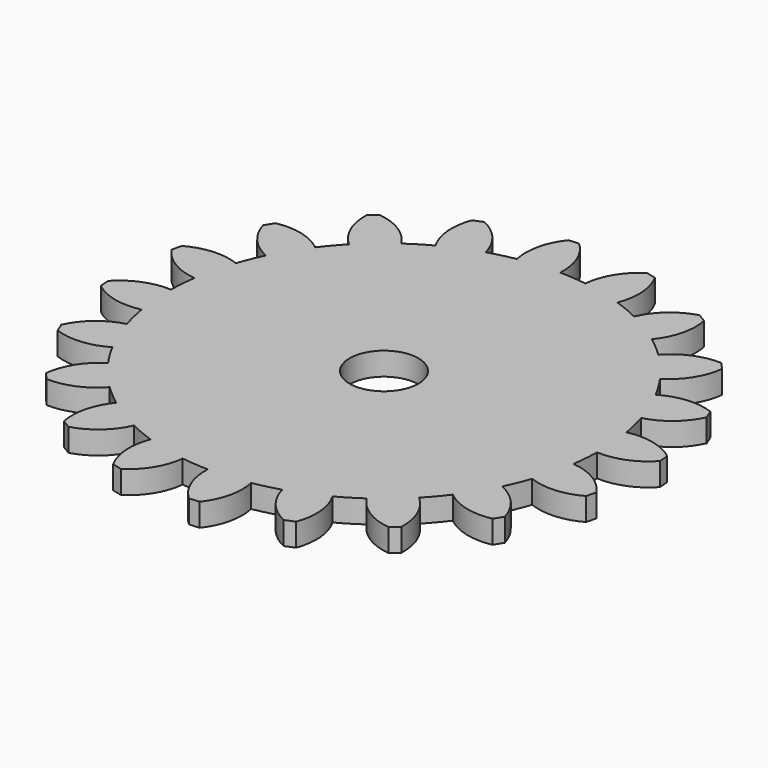
from build123d import *

# Parameters (mm, degrees)
F1_R     = 1.5
F2_DEPTH = 1


with BuildPart() as f2:
    # F1 (on Top) → F2 (new body)
    with BuildSketch(Plane.XY):
        with BuildLine():
            ThreePointArc((-1.6229776334, 9.2680599554), (-0.7382287643, 9.3800858219), (0.1531520845, 9.4078443957))
            ThreePointArc((0.1531520845, 9.4078443957), (-0.0317997207, 10.5374998224), (-0.6817601701, 11.4797736507))
            Line((-0.6817601701, 11.4797736507), (-1.1224656787, 11.4450893749))
            ThreePointArc((-1.1224656787, 11.4450893749), (-1.6170199342, 10.4127402859), (-1.6229776334, 9.2680599554))
        make_face()
        with BuildLine():
            ThreePointArc((9.4078443957, -0.1531520845), (9.4087792756, -0.0765785786), (9.4090909091, 0))
            ThreePointArc((9.4090909091, 0), (9.3737668631, 0.8145468262), (9.2680599554, 1.6229776334))
            ThreePointArc((9.2680599554, 1.6229776334), (9.1491169783, 2.1965086508), (8.9947183137, 2.7615275108))
            ThreePointArc((8.9947183137, 2.7615275108), (8.6928665104, 3.6007032045), (8.3129211438, 4.4075314852))
            ThreePointArc((8.3129211438, 4.4075314852), (8.0225688191, 4.9162364953), (7.7011265332, 5.4058895526))
            ThreePointArc((7.7011265332, 5.4058895526), (7.1547288581, 6.1107157275), (6.5440556911, 6.7606454461))
            ThreePointArc((6.5440556911, 6.7606454461), (6.1107157275, 7.1547288581), (5.6536948308, 7.52108546))
            ThreePointArc((5.6536948308, 7.52108546), (4.9162364953, 8.0225688191), (4.1346124722, 8.4519803265))
            ThreePointArc((4.1346124722, 8.4519803265), (3.6007032045, 8.6928665104), (3.0528400867, 8.90006512))
            ThreePointArc((3.0528400867, 8.90006512), (2.1965086508, 9.1491169783), (1.320444577, 9.3159764842))
            ThreePointArc((1.320444577, 9.3159764842), (0.7382287643, 9.3800858219), (0.1531520845, 9.4078443957))
            ThreePointArc((0.1531520845, 9.4078443957), (-0.7382287643, 9.3800858219), (-1.6229776334, 9.2680599554))
            ThreePointArc((-1.6229776334, 9.2680599554), (-2.1965086508, 9.1491169783), (-2.7615275108, 8.9947183137))
            ThreePointArc((-2.7615275108, 8.9947183137), (-3.6007032045, 8.6928665104), (-4.4075314852, 8.3129211438))
            ThreePointArc((-4.4075314852, 8.3129211438), (-4.9162364953, 8.0225688191), (-5.4058895526, 7.7011265332))
            ThreePointArc((-5.4058895526, 7.7011265332), (-6.1107157275, 7.1547288581), (-6.7606454461, 6.5440556911))
            ThreePointArc((-6.7606454461, 6.5440556911), (-7.1547288581, 6.1107157275), (-7.52108546, 5.6536948308))
            ThreePointArc((-7.52108546, 5.6536948308), (-8.0225688191, 4.9162364953), (-8.4519803265, 4.1346124722))
            ThreePointArc((-8.4519803265, 4.1346124722), (-8.6928665104, 3.6007032045), (-8.90006512, 3.0528400867))
            ThreePointArc((-8.90006512, 3.0528400867), (-9.1491169783, 2.1965086508), (-9.3159764842, 1.320444577))
            ThreePointArc((-9.3159764842, 1.320444577), (-9.3800858219, 0.7382287643), (-9.4078443957, 0.1531520845))
            ThreePointArc((-9.4078443957, 0.1531520845), (-9.3800858219, -0.7382287643), (-9.2680599554, -1.6229776334))
            ThreePointArc((-9.2680599554, -1.6229776334), (-9.1491169783, -2.1965086508), (-8.9947183137, -2.7615275108))
            ThreePointArc((-8.9947183137, -2.7615275108), (-8.6928665104, -3.6007032045), (-8.3129211438, -4.4075314852))
            ThreePointArc((-8.3129211438, -4.4075314852), (-8.0225688191, -4.9162364953), (-7.7011265332, -5.4058895526))
            ThreePointArc((-7.7011265332, -5.4058895526), (-7.1547288581, -6.1107157275), (-6.5440556911, -6.7606454461))
            ThreePointArc((-6.5440556911, -6.7606454461), (-6.1107157275, -7.1547288581), (-5.6536948308, -7.52108546))
            ThreePointArc((-5.6536948308, -7.52108546), (-4.9162364953, -8.0225688191), (-4.1346124722, -8.4519803265))
            ThreePointArc((-4.1346124722, -8.4519803265), (-3.6007032045, -8.6928665104), (-3.0528400867, -8.90006512))
            ThreePointArc((-3.0528400867, -8.90006512), (-2.1965086508, -9.1491169783), (-1.320444577, -9.3159764842))
            ThreePointArc((-1.320444577, -9.3159764842), (-0.7382287643, -9.3800858219), (-0.1531520845, -9.4078443957))
            ThreePointArc((-0.1531520845, -9.4078443957), (0.7382287643, -9.3800858219), (1.6229776334, -9.2680599554))
            ThreePointArc((1.6229776334, -9.2680599554), (2.1965086508, -9.1491169783), (2.7615275108, -8.9947183137))
            ThreePointArc((2.7615275108, -8.9947183137), (3.6007032045, -8.6928665104), (4.4075314852, -8.3129211438))
            ThreePointArc((4.4075314852, -8.3129211438), (4.9162364953, -8.0225688191), (5.4058895526, -7.7011265332))
            ThreePointArc((5.4058895526, -7.7011265332), (6.1107157275, -7.1547288581), (6.7606454461, -6.5440556911))
            ThreePointArc((6.7606454461, -6.5440556911), (7.1547288581, -6.1107157275), (7.52108546, -5.6536948308))
            ThreePointArc((7.52108546, -5.6536948308), (8.0225688191, -4.9162364953), (8.4519803265, -4.1346124722))
            ThreePointArc((8.4519803265, -4.1346124722), (8.6928665104, -3.6007032045), (8.90006512, -3.0528400867))
            ThreePointArc((8.90006512, -3.0528400867), (9.1491169783, -2.1965086508), (9.3159764842, -1.320444577))
            ThreePointArc((9.3159764842, -1.320444577), (9.3800858219, -0.7382287643), (9.4078443957, -0.1531520845))
        make_face()
        Circle(F1_R, mode=Mode.SUBTRACT)
        with BuildLine():
            ThreePointArc((-4.4075314852, 8.3129211438), (-3.6007032045, 8.6928665104), (-2.7615275108, 8.9947183137))
            ThreePointArc((-2.7615275108, 8.9947183137), (-3.286509855, 10.0119312174), (-4.195837602, 10.7072380574))
            Line((-4.195837602, 10.7072380574), (-4.604255417, 10.5380658593))
            ThreePointArc((-4.604255417, 10.5380658593), (-4.7555910517, 9.4034178615), (-4.4075314852, 8.3129211438))
        make_face()
        with BuildLine():
            ThreePointArc((-6.7606454461, 6.5440556911), (-6.1107157275, 7.1547288581), (-5.4058895526, 7.7011265332))
            ThreePointArc((-5.4058895526, 7.7011265332), (-6.2195135061, 8.5063250277), (-7.2991972152, 8.8866034014))
            Line((-7.2991972152, 8.8866034014), (-7.6353485554, 8.5995030343))
            ThreePointArc((-7.6353485554, 8.5995030343), (-7.428651783, 7.4736233793), (-6.7606454461, 6.5440556911))
        make_face()
        with BuildLine():
            ThreePointArc((-8.4519803265, 4.1346124722), (-8.0225688191, 4.9162364953), (-7.52108546, 5.6536948308))
            ThreePointArc((-7.52108546, 5.6536948308), (-8.5437078414, 6.1680604771), (-9.6880605486, 6.1960860878))
            Line((-9.6880605486, 6.1960860878), (-9.9190405786, 5.8191609361))
            ThreePointArc((-9.9190405786, 5.8191609361), (-9.3745443193, 4.812258569), (-8.4519803265, 4.1346124722))
        make_face()
        with BuildLine():
            ThreePointArc((-9.3159764842, 1.320444577), (-9.1491169783, 2.1965086508), (-8.90006512, 3.0528400867))
            ThreePointArc((-8.90006512, 3.0528400867), (-10.0315845257, 3.2260231917), (-11.1285890147, 2.8990526973))
            Line((-11.1285890147, 2.8990526973), (-11.2317877999, 2.469198821))
            ThreePointArc((-11.2317877999, 2.469198821), (-10.4027911413, 1.679836361), (-9.3159764842, 1.320444577))
        make_face()
        with BuildLine():
            ThreePointArc((-9.2680599554, -1.6229776334), (-9.3800858219, -0.7382287643), (-9.4078443957, 0.1531520845))
            ThreePointArc((-9.4078443957, 0.1531520845), (-10.5374998224, -0.0317997207), (-11.4797736507, -0.6817601701))
            Line((-11.4797736507, -0.6817601701), (-11.4450893749, -1.1224656787))
            ThreePointArc((-11.4450893749, -1.1224656787), (-10.4127402859, -1.6170199342), (-9.2680599554, -1.6229776334))
        make_face()
        with BuildLine():
            ThreePointArc((-10.5380658593, -4.604255417), (-9.4034178615, -4.7555910517), (-8.3129211438, -4.4075314852))
            ThreePointArc((-8.3129211438, -4.4075314852), (-8.6928665104, -3.6007032045), (-8.9947183137, -2.7615275108))
            ThreePointArc((-8.9947183137, -2.7615275108), (-10.0119312174, -3.286509855), (-10.7072380574, -4.195837602))
            Line((-10.7072380574, -4.195837602), (-10.5380658593, -4.604255417))
        make_face()
        with BuildLine():
            ThreePointArc((-8.5995030343, -7.6353485554), (-7.4736233793, -7.428651783), (-6.5440556911, -6.7606454461))
            ThreePointArc((-6.5440556911, -6.7606454461), (-7.1547288581, -6.1107157275), (-7.7011265332, -5.4058895526))
            ThreePointArc((-7.7011265332, -5.4058895526), (-8.5063250277, -6.2195135061), (-8.8866034014, -7.2991972152))
            Line((-8.8866034014, -7.2991972152), (-8.5995030343, -7.6353485554))
        make_face()
        with BuildLine():
            ThreePointArc((-5.8191609361, -9.9190405786), (-4.812258569, -9.3745443193), (-4.1346124722, -8.4519803265))
            ThreePointArc((-4.1346124722, -8.4519803265), (-4.9162364953, -8.0225688191), (-5.6536948308, -7.52108546))
            ThreePointArc((-5.6536948308, -7.52108546), (-6.1680604771, -8.5437078414), (-6.1960860878, -9.6880605486))
            Line((-6.1960860878, -9.6880605486), (-5.8191609361, -9.9190405786))
        make_face()
        with BuildLine():
            ThreePointArc((-2.469198821, -11.2317877999), (-1.679836361, -10.4027911413), (-1.320444577, -9.3159764842))
            ThreePointArc((-1.320444577, -9.3159764842), (-2.1965086508, -9.1491169783), (-3.0528400867, -8.90006512))
            ThreePointArc((-3.0528400867, -8.90006512), (-3.2260231917, -10.0315845257), (-2.8990526973, -11.1285890147))
            Line((-2.8990526973, -11.1285890147), (-2.469198821, -11.2317877999))
        make_face()
        with BuildLine():
            ThreePointArc((1.1224656787, -11.4450893749), (1.6170199342, -10.4127402859), (1.6229776334, -9.2680599554))
            ThreePointArc((1.6229776334, -9.2680599554), (0.7382287643, -9.3800858219), (-0.1531520845, -9.4078443957))
            ThreePointArc((-0.1531520845, -9.4078443957), (0.0317997207, -10.5374998224), (0.6817601701, -11.4797736507))
            Line((0.6817601701, -11.4797736507), (1.1224656787, -11.4450893749))
        make_face()
        with BuildLine():
            ThreePointArc((4.604255417, -10.5380658593), (4.7555910517, -9.4034178615), (4.4075314852, -8.3129211438))
            ThreePointArc((4.4075314852, -8.3129211438), (3.6007032045, -8.6928665104), (2.7615275108, -8.9947183137))
            ThreePointArc((2.7615275108, -8.9947183137), (3.286509855, -10.0119312174), (4.195837602, -10.7072380574))
            Line((4.195837602, -10.7072380574), (4.604255417, -10.5380658593))
        make_face()
        with BuildLine():
            ThreePointArc((7.6353485554, -8.5995030343), (7.428651783, -7.4736233793), (6.7606454461, -6.5440556911))
            ThreePointArc((6.7606454461, -6.5440556911), (6.1107157275, -7.1547288581), (5.4058895526, -7.7011265332))
            ThreePointArc((5.4058895526, -7.7011265332), (6.2195135061, -8.5063250277), (7.2991972152, -8.8866034014))
            Line((7.2991972152, -8.8866034014), (7.6353485554, -8.5995030343))
        make_face()
        with BuildLine():
            ThreePointArc((9.9190405786, -5.8191609361), (9.3745443193, -4.812258569), (8.4519803265, -4.1346124722))
            ThreePointArc((8.4519803265, -4.1346124722), (8.0225688191, -4.9162364953), (7.52108546, -5.6536948308))
            ThreePointArc((7.52108546, -5.6536948308), (8.5437078414, -6.1680604771), (9.6880605486, -6.1960860878))
            Line((9.6880605486, -6.1960860878), (9.9190405786, -5.8191609361))
        make_face()
        with BuildLine():
            ThreePointArc((11.2317877999, -2.469198821), (10.4027911413, -1.679836361), (9.3159764842, -1.320444577))
            ThreePointArc((9.3159764842, -1.320444577), (9.1491169783, -2.1965086508), (8.90006512, -3.0528400867))
            ThreePointArc((8.90006512, -3.0528400867), (10.0315845257, -3.2260231917), (11.1285890147, -2.8990526973))
            Line((11.1285890147, -2.8990526973), (11.2317877999, -2.469198821))
        make_face()
        with BuildLine():
            ThreePointArc((9.2680599554, 1.6229776334), (9.3737668631, 0.8145468262), (9.4090909091, 0))
            ThreePointArc((9.4090909091, 0), (9.4087792756, -0.0765785786), (9.4078443957, -0.1531520845))
            ThreePointArc((9.4078443957, -0.1531520845), (10.5374998224, 0.0317997207), (11.4797736507, 0.6817601701))
            Line((11.4797736507, 0.6817601701), (11.4450893749, 1.1224656787))
            ThreePointArc((11.4450893749, 1.1224656787), (10.4127402859, 1.6170199342), (9.2680599554, 1.6229776334))
        make_face()
        with BuildLine():
            ThreePointArc((8.3129211438, 4.4075314852), (8.6928665104, 3.6007032045), (8.9947183137, 2.7615275108))
            ThreePointArc((8.9947183137, 2.7615275108), (10.0119312174, 3.286509855), (10.7072380574, 4.195837602))
            Line((10.7072380574, 4.195837602), (10.5380658593, 4.604255417))
            ThreePointArc((10.5380658593, 4.604255417), (9.4034178615, 4.7555910517), (8.3129211438, 4.4075314852))
        make_face()
        with BuildLine():
            ThreePointArc((6.5440556911, 6.7606454461), (7.1547288581, 6.1107157275), (7.7011265332, 5.4058895526))
            ThreePointArc((7.7011265332, 5.4058895526), (8.5063250277, 6.2195135061), (8.8866034014, 7.2991972152))
            Line((8.8866034014, 7.2991972152), (8.5995030343, 7.6353485554))
            ThreePointArc((8.5995030343, 7.6353485554), (7.4736233793, 7.428651783), (6.5440556911, 6.7606454461))
        make_face()
        with BuildLine():
            ThreePointArc((4.1346124722, 8.4519803265), (4.9162364953, 8.0225688191), (5.6536948308, 7.52108546))
            ThreePointArc((5.6536948308, 7.52108546), (6.1680604771, 8.5437078414), (6.1960860878, 9.6880605486))
            Line((6.1960860878, 9.6880605486), (5.8191609361, 9.9190405786))
            ThreePointArc((5.8191609361, 9.9190405786), (4.812258569, 9.3745443193), (4.1346124722, 8.4519803265))
        make_face()
        with BuildLine():
            ThreePointArc((1.320444577, 9.3159764842), (2.1965086508, 9.1491169783), (3.0528400867, 8.90006512))
            ThreePointArc((3.0528400867, 8.90006512), (3.2260231917, 10.0315845257), (2.8990526973, 11.1285890147))
            Line((2.8990526973, 11.1285890147), (2.469198821, 11.2317877999))
            ThreePointArc((2.469198821, 11.2317877999), (1.679836361, 10.4027911413), (1.320444577, 9.3159764842))
        make_face()
    extrude(amount=F2_DEPTH)


solid = f2.part
